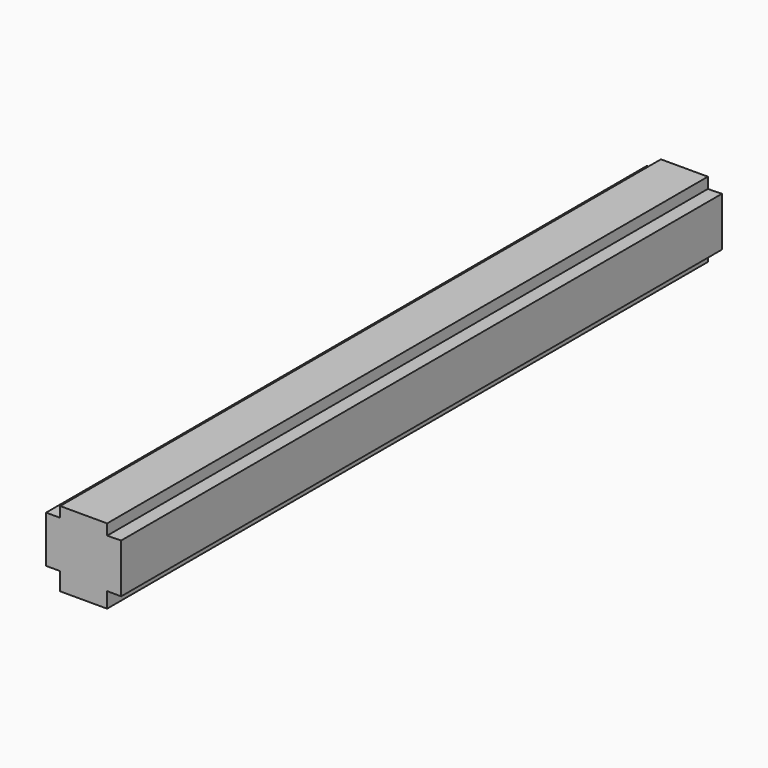
from build123d import *

# Parameters (mm, degrees)
F1_DEPTH = 101.6


with BuildPart() as f1:
    # F0 (on Front) → F1 (new body)
    with BuildSketch(Plane.XZ):
        Polygon((3.178968, 4.577696), (0, 4.577696), (-3.176002, 4.577696), (-3.176002, 3.175), (-5.081693, 3.175), (-5.081693, 0), (-5.081693, -3.17171), (-3.176002, -3.17171), (-3.176002, -5.582304), (0, -5.582304), (3.178968, -5.582304), (3.178968, -3.492001), (5.080733, -3.492001), (5.080733, -3.158578), (5.080733, 0), (5.080733, 3.158788), (3.178968, 3.116691), align=None)
    extrude(amount=F1_DEPTH)


solid = f1.part
